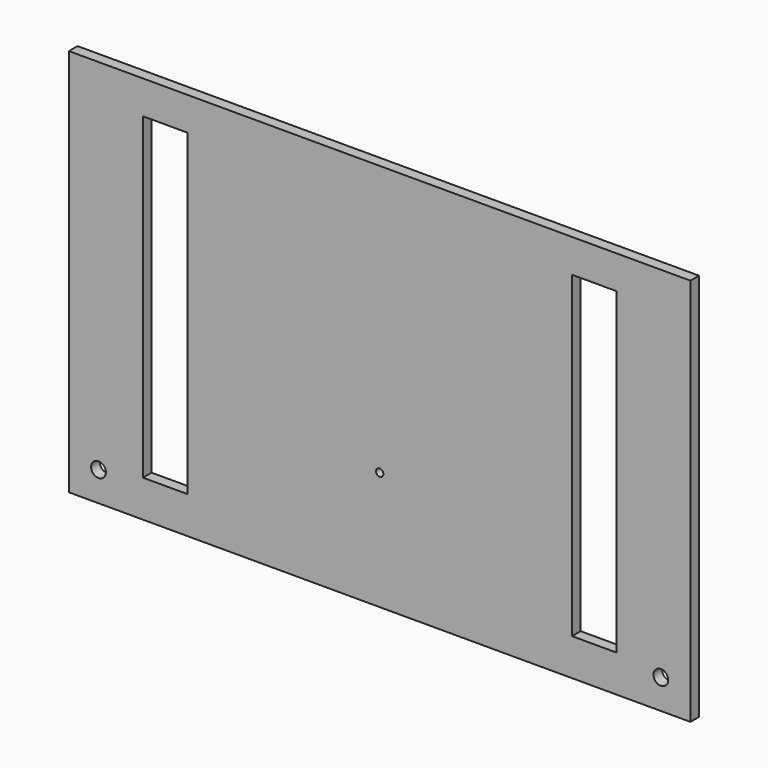
from build123d import *

# Parameters (mm, degrees)
F0_W     = 1066.8
F0_H     = 666.75
F0_R     = 12.7
F0_R_2   = 6.35
F0_W_2   = 76.2
F0_H_2   = 546.1
F1_DEPTH = 18.542


with BuildPart() as f1:
    # F0 (on Front) → F1 (new body)
    with BuildSketch(Plane.XZ):
        with Locations((0, 3.175)):
            Rectangle(F0_W, F0_H)
        with Locations((-482.6, -279.4)):
            Circle(F0_R, mode=Mode.SUBTRACT)
        with Locations((482.6, -279.4)):
            Circle(F0_R, mode=Mode.SUBTRACT)
        with Locations((0, -127)):
            Circle(F0_R_2, mode=Mode.SUBTRACT)
        with Locations((-368.3, 6.35)):
            Rectangle(F0_W_2, F0_H_2, mode=Mode.SUBTRACT)
        with Locations((368.3, 6.35)):
            Rectangle(F0_W_2, F0_H_2, mode=Mode.SUBTRACT)
    extrude(amount=F1_DEPTH)


solid = f1.part
